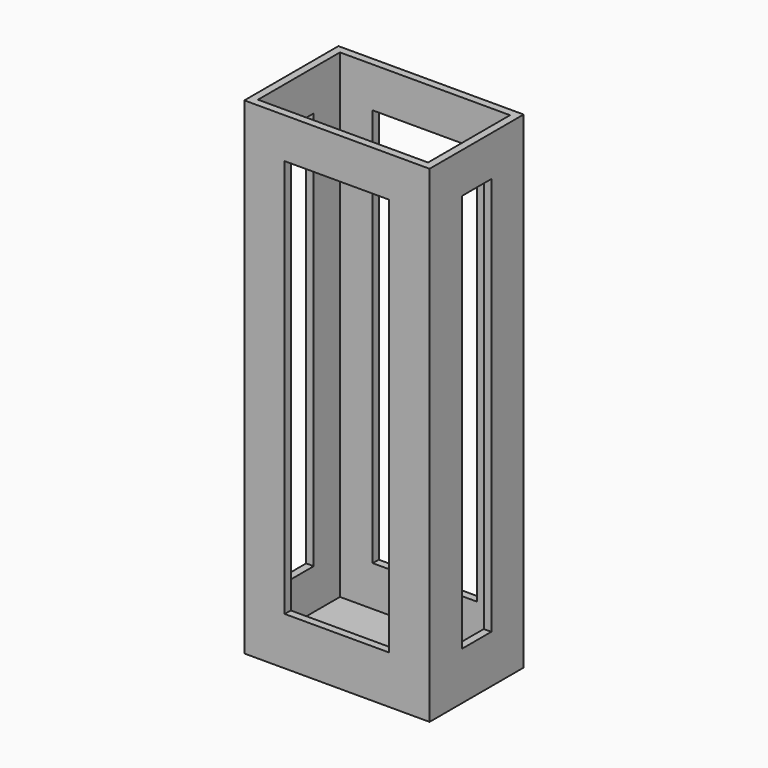
from build123d import *

# Parameters (mm, degrees)
F0_W     = 36.7
F0_H     = 23.3
F0_W_2   = 33.7
F0_H_2   = 20.3
F1_DEPTH = 95
F2_W     = 20.7
F2_H     = 79
F3_DEPTH = 23.301
F4_W     = 7.3
F4_H     = 79
F5_DEPTH = 36.701
F6_W     = 36.7
F6_H     = 23.3
F7_DEPTH = 1.5


with BuildPart() as f1:
    # F0 (on Top) → F1 (new body)
    with BuildSketch(Plane.XY):
        with Locations((16.85, 10.15)):
            Rectangle(F0_W, F0_H)
        with Locations((16.85, 10.15)):
            Rectangle(F0_W_2, F0_H_2, mode=Mode.SUBTRACT)
    extrude(amount=F1_DEPTH)

    # F2 (on face) → F3 (cut, through all)
    with BuildSketch(Plane(origin=(0, 21.8, 0), x_dir=(-1, 0, 0), z_dir=(0, 1, 0))):
        with Locations((-16.85, 47.5)):
            Rectangle(F2_W, F2_H)
    extrude(amount=-F3_DEPTH, mode=Mode.SUBTRACT)

    # F4 (on face) → F5 (cut, through all)
    with BuildSketch(Plane.YZ.offset(35.2)):
        with Locations((10.15, 47.5)):
            Rectangle(F4_W, F4_H)
    extrude(amount=-F5_DEPTH, mode=Mode.SUBTRACT)

    # F6 (on Top) → F7 (join)
    with BuildSketch(Plane.XY):
        with Locations((16.85, 10.15)):
            Rectangle(F6_W, F6_H)
    extrude(amount=-F7_DEPTH)


solid = f1.part
